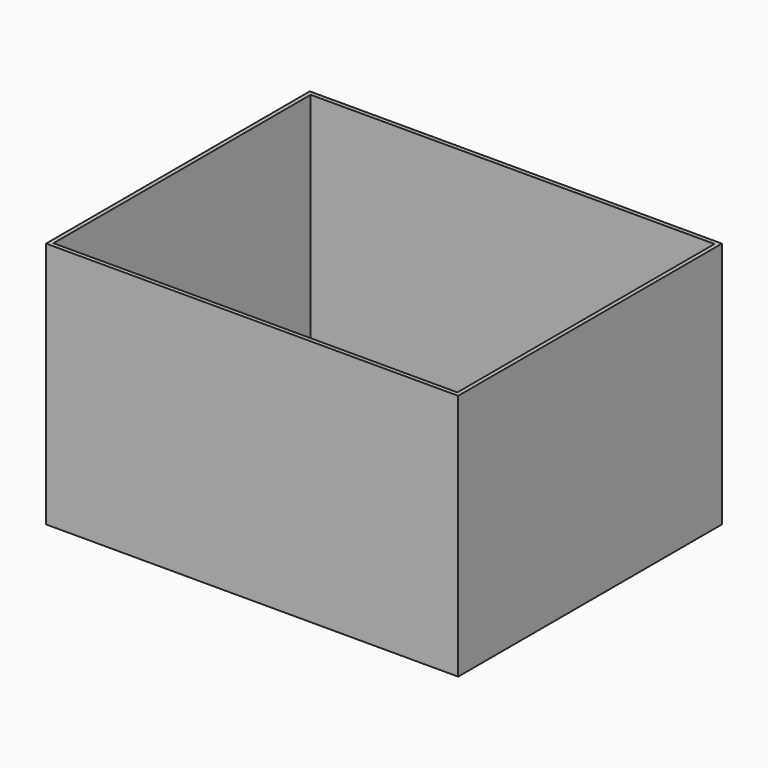
from build123d import *

# Parameters (mm, degrees)
F0_W     = 250
F0_H     = 200
F1_DEPTH = 150
F2_T     = -2.5
F3_R     = 1.29


with BuildPart() as f1:
    # F0 (on Top) → F1 (new body)
    with BuildSketch(Plane.XY):
        with Locations((125, 100)):
            Rectangle(F0_W, F0_H)
    extrude(amount=F1_DEPTH)

    # F2
    f2_openings = [f1.faces().sort_by_distance(p)[0] for p in [
        (125, 100, 150),
    ]]
    offset(amount=F2_T, openings=f2_openings)

    # F3
    f3_edges = [f1.edges().sort_by_distance(p)[0] for p in [
        (2.5, 100, 2.5),
        (125, 197.5, 2.5),
        (247.5, 100, 2.5),
        (125, 2.5, 2.5),
    ]]
    fillet(f3_edges, radius=F3_R)


solid = f1.part
